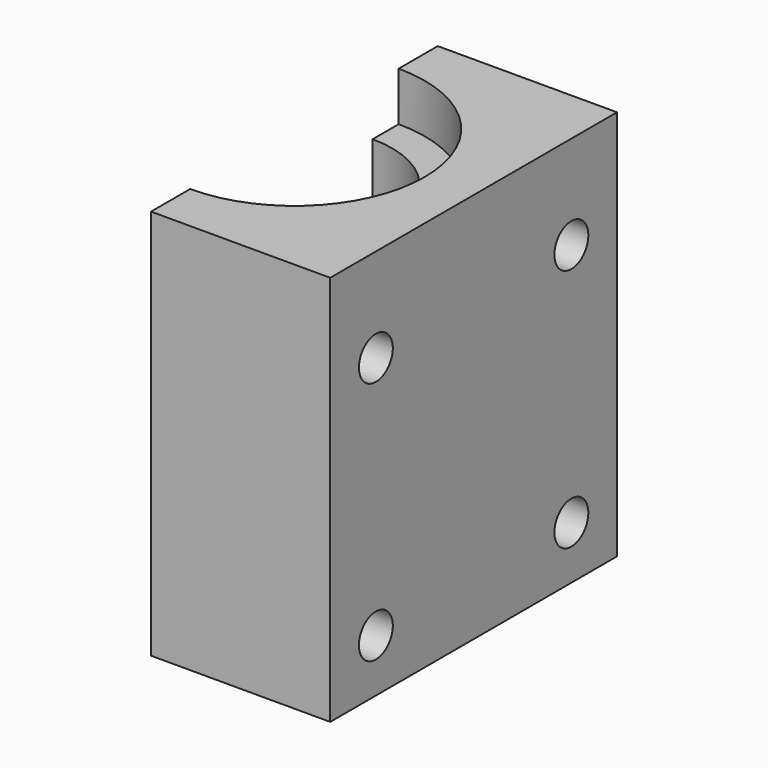
from build123d import *

# Parameters (mm, degrees)
F2_DEPTH = 24
F3_DEPTH = 21
F4_DEPTH = 15.5
F5_DEPTH = 12
F6_DEPTH = 4
F7_R     = 1.3
F8_DEPTH = 11.001


with BuildPart() as f2:
    # F1 (on Top) → F2 (new body)
    with BuildSketch(Plane.XY):
        with BuildLine():
            Line((11, 11), (0, 11))
            Line((0, 11), (0, 8))
            ThreePointArc((0, 8), (5.6568542495, 5.6568542495), (8, 0))
            ThreePointArc((8, 0), (5.6568542495, -5.6568542495), (0, -8))
            Line((0, -8), (0, -11))
            Line((0, -11), (11, -11))
            Line((11, -11), (11, 11))
        make_face()
    extrude(amount=F2_DEPTH)

    # F1 (on Top) → F3 (join)
    with BuildSketch(Plane.XY):
        with BuildLine():
            ThreePointArc((8, 0), (5.6568542495, 5.6568542495), (0, 8))
            Line((0, 8), (0, 6))
            ThreePointArc((0, 6), (4.2426406871, 4.2426406871), (6, 0))
            ThreePointArc((6, 0), (4.2426406871, -4.2426406871), (0, -6))
            Line((0, -6), (0, -8))
            ThreePointArc((0, -8), (5.6568542495, -5.6568542495), (8, 0))
        make_face()
    extrude(amount=F3_DEPTH)

    # F1 (on Top) → F4 (cut)
    with BuildSketch(Plane.XY):
        with BuildLine():
            ThreePointArc((8, 0), (5.6568542495, 5.6568542495), (0, 8))
            Line((0, 8), (0, 6))
            ThreePointArc((0, 6), (4.2426406871, 4.2426406871), (6, 0))
            ThreePointArc((6, 0), (4.2426406871, -4.2426406871), (0, -6))
            Line((0, -6), (0, -8))
            ThreePointArc((0, -8), (5.6568542495, -5.6568542495), (8, 0))
        make_face()
        with BuildLine():
            Line((0, 6), (0, 8))
            ThreePointArc((0, 8), (-8, 0), (0, -8))
            Line((0, -8), (0, -6))
            ThreePointArc((0, -6), (-6, 0), (0, 6))
        make_face()
    extrude(amount=F4_DEPTH, mode=Mode.SUBTRACT)

    # F1 (on Top) → F5 (join)
    with BuildSketch(Plane.XY):
        with BuildLine():
            ThreePointArc((8, 0), (5.6568542495, 5.6568542495), (0, 8))
            Line((0, 8), (0, 6))
            ThreePointArc((0, 6), (4.2426406871, 4.2426406871), (6, 0))
            ThreePointArc((6, 0), (4.2426406871, -4.2426406871), (0, -6))
            Line((0, -6), (0, -8))
            ThreePointArc((0, -8), (5.6568542495, -5.6568542495), (8, 0))
        make_face()
        with BuildLine():
            ThreePointArc((6, 0), (4.2426406871, 4.2426406871), (0, 6))
            Line((0, 6), (0, 2.25))
            ThreePointArc((0, 2.25), (1.5909902577, 1.5909902577), (2.25, 0))
            ThreePointArc((2.25, 0), (1.5909902577, -1.5909902577), (0, -2.25))
            Line((0, -2.25), (0, -6))
            ThreePointArc((0, -6), (4.2426406871, -4.2426406871), (6, 0))
        make_face()
        with BuildLine():
            ThreePointArc((2.25, 0), (1.5909902577, 1.5909902577), (0, 2.25))
            Line((0, 2.25), (0, 1))
            ThreePointArc((0, 1), (0.7071067812, 0.7071067812), (1, 0))
            ThreePointArc((1, 0), (0.7071067812, -0.7071067812), (0, -1))
            Line((0, -1), (0, -2.25))
            ThreePointArc((0, -2.25), (1.5909902577, -1.5909902577), (2.25, 0))
        make_face()
    extrude(amount=F5_DEPTH)

    # F1 (on Top) → F6 (cut)
    with BuildSketch(Plane.XY):
        with BuildLine():
            ThreePointArc((2.25, 0), (1.5909902577, 1.5909902577), (0, 2.25))
            Line((0, 2.25), (0, 1))
            ThreePointArc((0, 1), (0.7071067812, 0.7071067812), (1, 0))
            ThreePointArc((1, 0), (0.7071067812, -0.7071067812), (0, -1))
            Line((0, -1), (0, -2.25))
            ThreePointArc((0, -2.25), (1.5909902577, -1.5909902577), (2.25, 0))
        make_face()
        with BuildLine():
            Line((0, 1), (0, 2.25))
            ThreePointArc((0, 2.25), (-2.25, 0), (0, -2.25))
            Line((0, -2.25), (0, -1))
            ThreePointArc((0, -1), (-1, 0), (0, 1))
        make_face()
    extrude(amount=F6_DEPTH, mode=Mode.SUBTRACT)

    # F7 (on face) → F8 (cut, through all)
    with BuildSketch(Plane(origin=(0, 0, 0), x_dir=(0, -1, 0), z_dir=(-1, 0, 0))):
        with Locations((-7.5, 18.25)):
            Circle(F7_R)
        with Locations((7.5, 18.25)):
            Circle(F7_R)
        with Locations((7.5, 3.25)):
            Circle(F7_R)
        with Locations((-7.5, 3.25)):
            Circle(F7_R)
    extrude(amount=-F8_DEPTH, mode=Mode.SUBTRACT)


solid = f2.part
